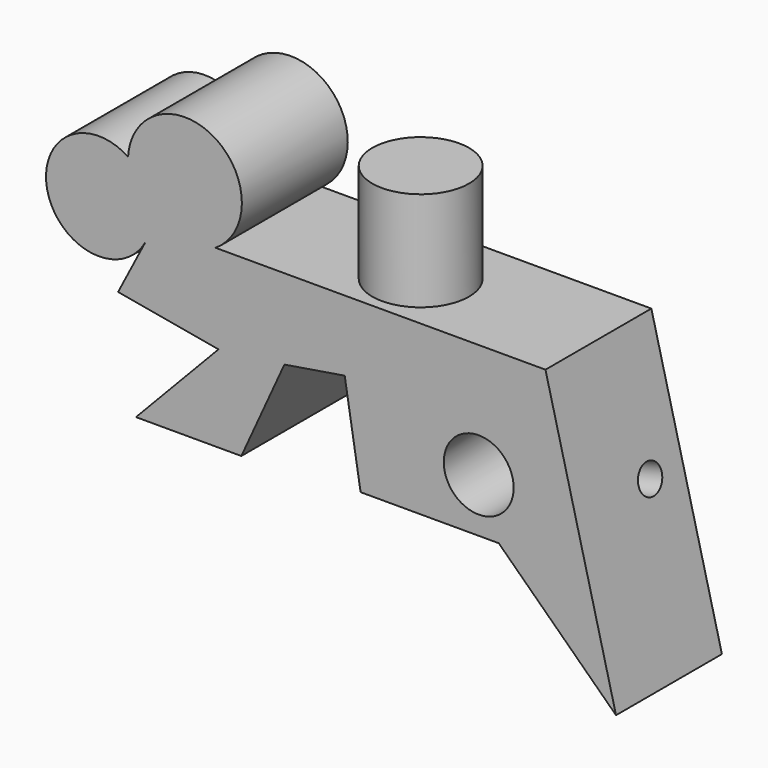
from build123d import *

# Parameters (mm, degrees)
F1_DEPTH = 25
F2_R     = 9.1373758173
F3_DEPTH = 18.8
F6_D     = 5.5
F9_D     = 13.2


with BuildPart() as f1:
    # F0 (on Front) → F1 (new body)
    with BuildSketch(Plane.XZ):
        with BuildLine():
            Line((20.4618610442, 41.5807515383), (-41.8623387814, 41.5807515383))
            ThreePointArc((-41.8623387814, 41.5807515383), (-42.1671038517, 59.9239812985), (-58.3820044994, 51.3423755765))
            ThreePointArc((-58.3820044994, 51.3423755765), (-73.5517436915, 40.4678527546), (-55.0029836595, 38.3894555271))
            Line((-55.0029836595, 38.3894555271), (-60.2592416108, 28.2523836941))
            Line((-60.2592416108, 28.2523836941), (-41.2991680205, 24.8733609915))
            Line((-41.2991680205, 24.8733609915), (-56.8802170455, 8.5414182395))
            Line((-56.8802170455, 8.5414182395), (-36.9815267622, 8.5414182395))
            Line((-36.9815267622, 8.5414182395), (-28.8509290056, 26.3923599584))
            Line((-28.8509290056, 26.3923599584), (-17.4582842737, 28.2523836941))
            Line((-17.4582842737, 28.2523836941), (-14.4547084346, 9.8554827273))
            Line((-14.4547084346, 9.8554827273), (11.6388564929, 9.8554827273))
            Line((11.6388564929, 9.8554827273), (33.7902270257, -11.5449940786))
            Line((33.7902270257, -11.5449940786), (20.4618610442, 41.5807515383))
        make_face()
    extrude(amount=F1_DEPTH)

    # F2 (on face) → F3 (join)
    with BuildSketch(Plane.XY.offset(41.5807515383)):
        with Locations((-12.0476996526, -13.8280903921)):
            Circle(F2_R)
    extrude(amount=F3_DEPTH)

    # F6 (through all)
    with Locations(Plane(origin=(29.0643953622, 0, 7.2917733939), x_dir=(0, 1, 0), z_dir=(0.9699405616, 0, 0.2433419547))):
        with Locations((-7.6085178865, 11.3008453181)):
            Hole(F6_D / 2)

    # F9 (through all)
    with Locations(Plane(origin=(0, 0, 0), x_dir=(-1, 0, 0), z_dir=(0, 1, 0))):
        with Locations((-7.8541710973, 19.9797544628)):
            Hole(F9_D / 2)


solid = f1.part
